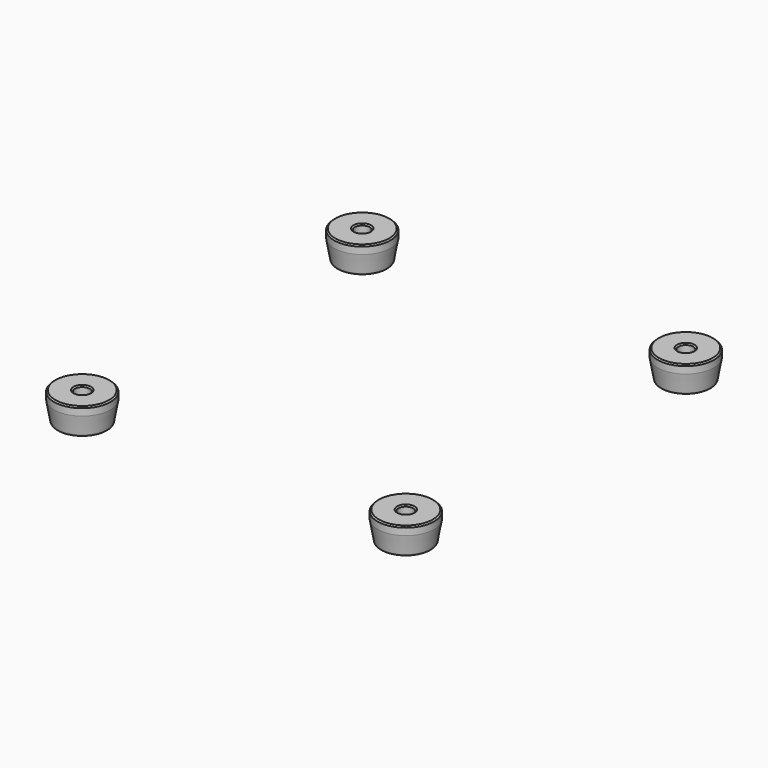
from build123d import *

# Parameters (mm, degrees)
FILLET001_R      = 0.5
CHAMFER002_SIZE  = 0.4
ARRAY001_X_COUNT = 2
ARRAY001_X_PITCH = 98
ARRAY001_Y_COUNT = 2
ARRAY001_Y_PITCH = 106


with BuildPart() as part:
    # Sketch023 → Revolution (revolve)
    with BuildSketch(Plane.XZ):
        Polygon((2.25, 0), (2.25, 2.5), (8.557962, 2.5), (8.557962, 0), (7.5, -6), (4.25, -6), (4.25, 0), align=None)
    revolve(axis=Axis((0, 0, 0), (0, 0, 1)))

    # Fillet001
    fillet001_edges = [part.edges().sort_by_distance(p)[0] for p in [
        (-7.5, 0, -6),
        (-4.25, 0, -6),
    ]]
    fillet(fillet001_edges, radius=FILLET001_R)

    # Chamfer002
    chamfer002_edges = [part.edges().sort_by_distance(p)[0] for p in [
        (-2.25, 0, 2.5),
        (-8.557962, 0, 2.5),
    ]]
    chamfer(chamfer002_edges, length=CHAMFER002_SIZE)


with BuildPart() as part_1:
    # Body005 placement: moved
    add(part.part.moved(Location((-49, -53, 0))))

    # Array001 X: part ×2


with BuildPart() as part_2:
    add(part_1.part)
    with Locations(*[(i * ARRAY001_X_PITCH, 0, 0) for i in range(1, ARRAY001_X_COUNT)]):
        add(part_1.part)

    # Array001 Y: part ×2


with BuildPart() as part_3:
    add(part_2.part)
    with Locations(*[(0, i * ARRAY001_Y_PITCH, 0) for i in range(1, ARRAY001_Y_COUNT)]):
        add(part_2.part)


with BuildPart() as part_4:
    # Array001 placement: moved
    add(part_3.part.moved(Location((0, 0, -3))))


solid = part_4.part
